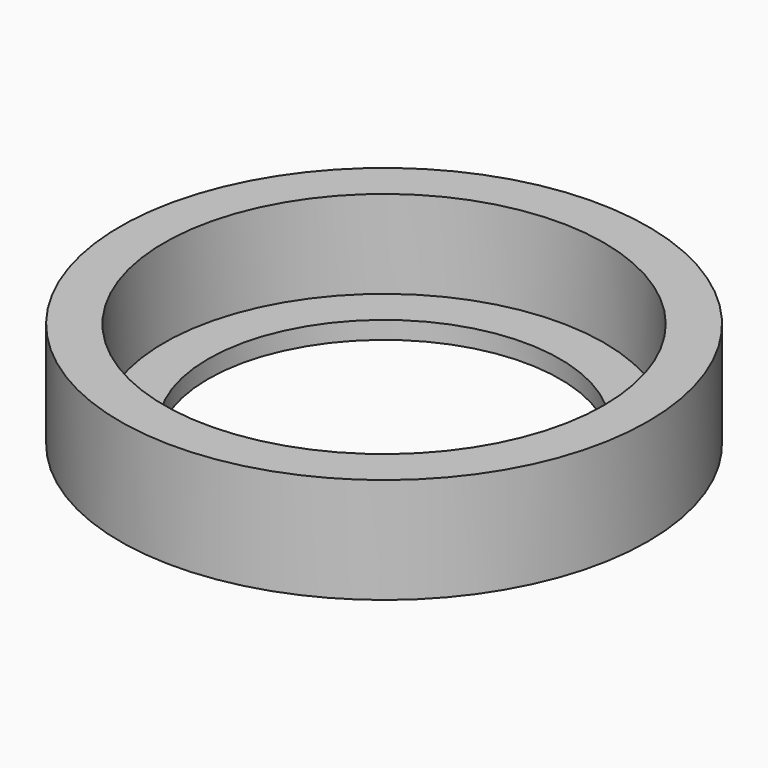
from build123d import *

# Parameters (mm, degrees)
SKETCH_R        = 15
PAD_DEPTH       = 6
SKETCH001_R     = 12.5
POCKET_DEPTH    = 5
SKETCH002_R     = 10
POCKET001_DEPTH = 1.001


with BuildPart() as part:
    # Sketch → Pad (new body)
    with BuildSketch(Plane.XY):
        Circle(SKETCH_R)
    extrude(amount=PAD_DEPTH)

    # Sketch001 (on Face3 of Pad) → Pocket (cut)
    with BuildSketch(Plane.XY.offset(6)):
        Circle(SKETCH001_R)
    extrude(amount=-POCKET_DEPTH, mode=Mode.SUBTRACT)

    # Sketch002 (on Face5 of Pocket) → Pocket001 (cut, through all)
    with BuildSketch(Plane.XY.offset(1)):
        Circle(SKETCH002_R)
    extrude(amount=-POCKET001_DEPTH, mode=Mode.SUBTRACT)


solid = part.part
